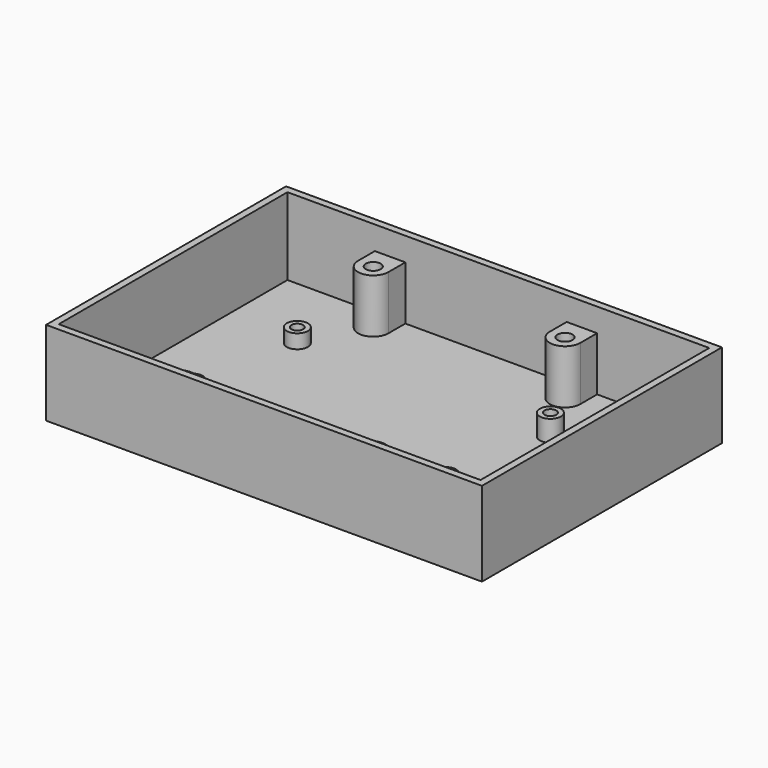
from build123d import *

# Parameters (mm, degrees)
F0_W     = 93
F0_H     = 64
F1_DEPTH = 18
F2_T     = -1.5
F3_R     = 2.25
F3_R_2   = 1.25
F4_DEPTH = 6
F5_DEPTH = 4.5
F3_R_3   = 1.6
F6_DEPTH = 13


with BuildPart() as f1:
    # F0 (on Top) → F1 (new body)
    with BuildSketch(Plane.XY):
        Rectangle(F0_W, F0_H)
    extrude(amount=F1_DEPTH)

    # F2
    f2_openings = [f1.faces().sort_by_distance(p)[0] for p in [
        (0, 0, 18),
    ]]
    offset(amount=F2_T, openings=f2_openings)

    # F3 (on Top) → F4 (join)
    with BuildSketch(Plane.XY):
        with Locations((-29.5, -14.25)):
            Circle(F3_R)
        with Locations((-29.5, -14.25)):
            Circle(F3_R_2, mode=Mode.SUBTRACT)
        with Locations((24.5, -14.25)):
            Circle(F3_R)
        with Locations((24.5, -14.25)):
            Circle(F3_R_2, mode=Mode.SUBTRACT)
        with Locations((24.5, 13.75)):
            Circle(F3_R)
        with Locations((24.5, 13.75)):
            Circle(F3_R_2, mode=Mode.SUBTRACT)
    extrude(amount=F4_DEPTH)

    # F3 (on Top) → F5 (join)
    with BuildSketch(Plane.XY):
        with Locations((-29.5, 13.75)):
            Circle(F3_R)
        with Locations((-29.5, 13.75)):
            Circle(F3_R_2, mode=Mode.SUBTRACT)
    extrude(amount=F5_DEPTH)

    # F3 (on Top) → F6 (join)
    with BuildSketch(Plane.XY):
        with BuildLine():
            Line((-19.85, 31), (-26.35, 31))
            Line((-26.35, 31), (-26.35, 26))
            ThreePointArc((-26.35, 26), (-23.1, 22.75), (-19.85, 26))
            Line((-19.85, 26), (-19.85, 31))
        make_face()
        with Locations((-23.1, 26)):
            Circle(F3_R_3, mode=Mode.SUBTRACT)
        with BuildLine():
            Line((21.075, 31), (14.575, 31))
            Line((14.575, 31), (14.575, 26))
            ThreePointArc((14.575, 26), (17.825, 22.75), (21.075, 26))
            Line((21.075, 26), (21.075, 31))
        make_face()
        with Locations((17.825, 26)):
            Circle(F3_R_3, mode=Mode.SUBTRACT)
        with BuildLine():
            Line((14.575, -26), (14.575, -31))
            Line((14.575, -31), (21.075, -31))
            Line((21.075, -31), (21.075, -26))
            ThreePointArc((21.075, -26), (17.825, -22.75), (14.575, -26))
        make_face()
        with Locations((17.825, -26)):
            Circle(F3_R_3, mode=Mode.SUBTRACT)
        with BuildLine():
            Line((-26.35, -26), (-26.35, -31))
            Line((-26.35, -31), (-19.85, -31))
            Line((-19.85, -31), (-19.85, -26))
            ThreePointArc((-19.85, -26), (-23.1, -22.75), (-26.35, -26))
        make_face()
        with Locations((-23.1, -26)):
            Circle(F3_R_3, mode=Mode.SUBTRACT)
    extrude(amount=F6_DEPTH)


solid = f1.part
